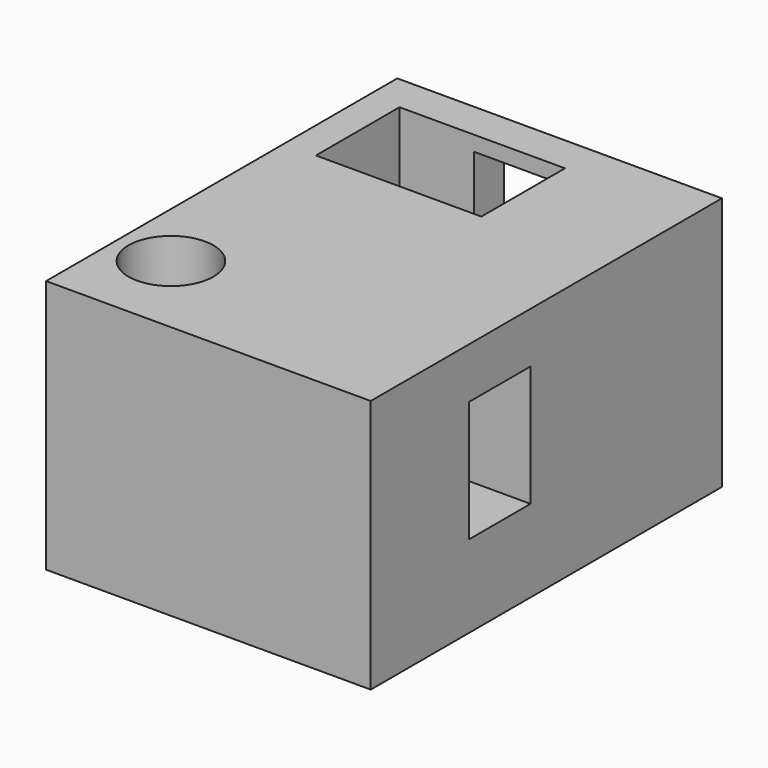
from build123d import *

# Parameters (mm, degrees)
F0_W      = 39.2675818875
F0_H      = 53.094195202
F1_DEPTH  = 30.734
F2_R      = 5.9033693707
F3_DEPTH  = 34.544
F4_R      = 6.9366562731
F5_DEPTH  = 29.21
F6_R      = 5.137322698
F7_DEPTH  = 25.4
F8_W      = 9.2991222627
F8_H      = 14.6318394691
F9_DEPTH  = 25.4
F10_W     = 8.8133979589
F10_H     = 24.9259229749
F11_DEPTH = 25.4
F12_W     = 20.0094743632
F12_H     = 12.6438736916
F13_DEPTH = 25.4


with BuildPart() as f1:
    # F0 (on Top) → F1 (new body)
    with BuildSketch(Plane.XY):
        with Locations((-9.2177423649, -5.0697578117)):
            Rectangle(F0_W, F0_H)
    extrude(amount=F1_DEPTH)

    # F2 (on face) → F3 (join)
    with BuildSketch(Plane(origin=(0, 21.4773397893, 0), x_dir=(-1, 0, 0), z_dir=(0, 1, 0))):
        with Locations((0, 21.7559281737)):
            Circle(F2_R)
    extrude(amount=-F3_DEPTH)

    # F4 (on face) → F5 (join)
    with BuildSketch(Plane(origin=(0, 21.4773397893, 0), x_dir=(-1, 0, 0), z_dir=(0, 1, 0))):
        with Locations((0, 17.7725534886)):
            Circle(F4_R)
    extrude(amount=-F5_DEPTH)

    # F6 (on face) → F7 (cut)
    with BuildSketch(Plane.XY.offset(30.734)):
        with Locations((-22.2064536065, -21.0470482707)):
            Circle(F6_R)
    extrude(amount=-F7_DEPTH, mode=Mode.SUBTRACT)

    # F8 (on face) → F9 (cut)
    with BuildSketch(Plane.YZ.offset(10.4160485789)):
        with Locations((-12.1103653219, 17.2777241096)):
            Rectangle(F8_W, F8_H)
    extrude(amount=-F9_DEPTH, mode=Mode.SUBTRACT)

    # F10 (on face) → F11 (cut)
    with BuildSketch(Plane(origin=(0, 21.4773397893, 0), x_dir=(-1, 0, 0), z_dir=(0, 1, 0))):
        with Locations((11.5594444796, 16.4570594206)):
            Rectangle(F10_W, F10_H)
    extrude(amount=-F11_DEPTH, mode=Mode.SUBTRACT)

    # F12 (on face) → F13 (cut)
    with BuildSketch(Plane.XY.offset(30.734)):
        with Locations((-14.995142119, 10.6841661036)):
            Rectangle(F12_W, F12_H)
    extrude(amount=-F13_DEPTH, mode=Mode.SUBTRACT)


solid = f1.part
